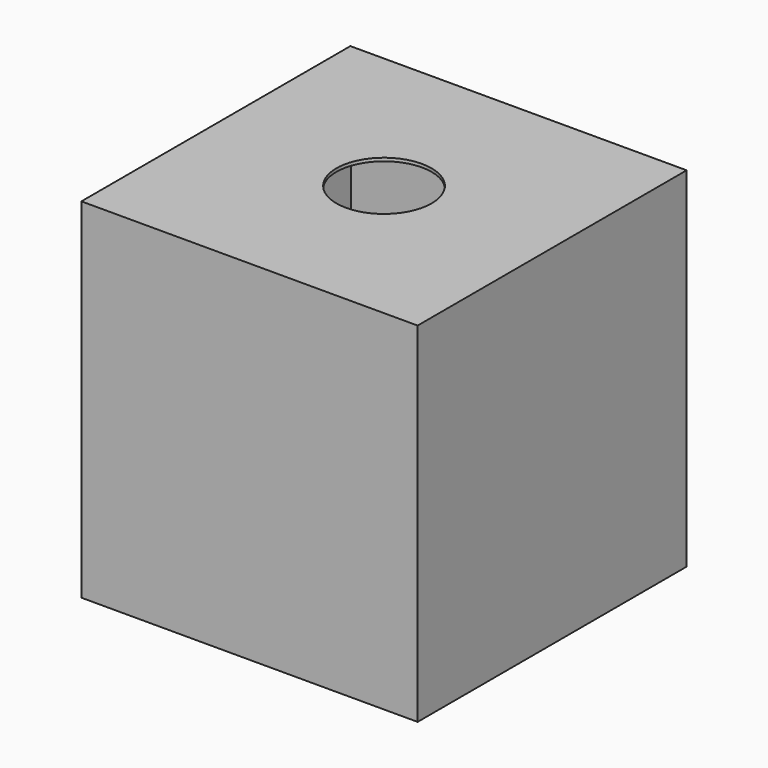
from build123d import *

# Parameters (mm, degrees)
F0_W     = 106
F0_H     = 106
F0_R     = 15
F1_DEPTH = 110
F2_T     = -1


with BuildPart() as f1:
    # F0 (on Top) → F1 (new body)
    with BuildSketch(Plane.XY):
        Rectangle(F0_W, F0_H)
        Circle(F0_R, mode=Mode.SUBTRACT)
    extrude(amount=-F1_DEPTH)

    # F2
    f2_openings = [f1.faces().sort_by_distance(p)[0] for p in [
        (51.500934, 0, -110),
        (-15, 0, -55),
    ]]
    offset(amount=F2_T, openings=f2_openings)


solid = f1.part
